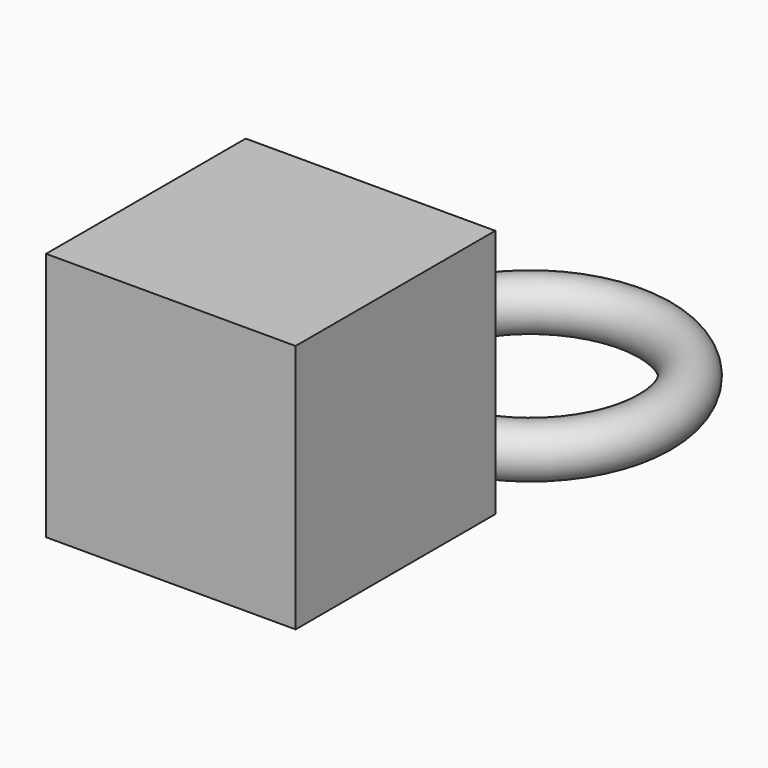
from build123d import *

# Parameters (mm, degrees)
BOX_W     = 10
BOX_H     = 10
BOX_DEPTH = 10
TORUS_R   = 1


with BuildPart() as obj1:
    # Box → Box (new body)
    with BuildSketch(Plane(origin=(-22, 2, 0), x_dir=(1, 0, 0), z_dir=(0, 0, 1))):
        with Locations((5, 5)):
            Rectangle(BOX_W, BOX_H)
    extrude(amount=BOX_DEPTH)


with BuildPart() as trash_to_ignore:
    # Torus → Torus (revolve)
    with BuildSketch(Plane(origin=(-17, 20, 0), x_dir=(1, 0, 0), z_dir=(0, -1, 0))):
        with Locations((5, 0)):
            Circle(TORUS_R)
    revolve(axis=Axis((-17, 20, 0), (0, 0, 1)))


solid = Compound([obj1.part, trash_to_ignore.part])
